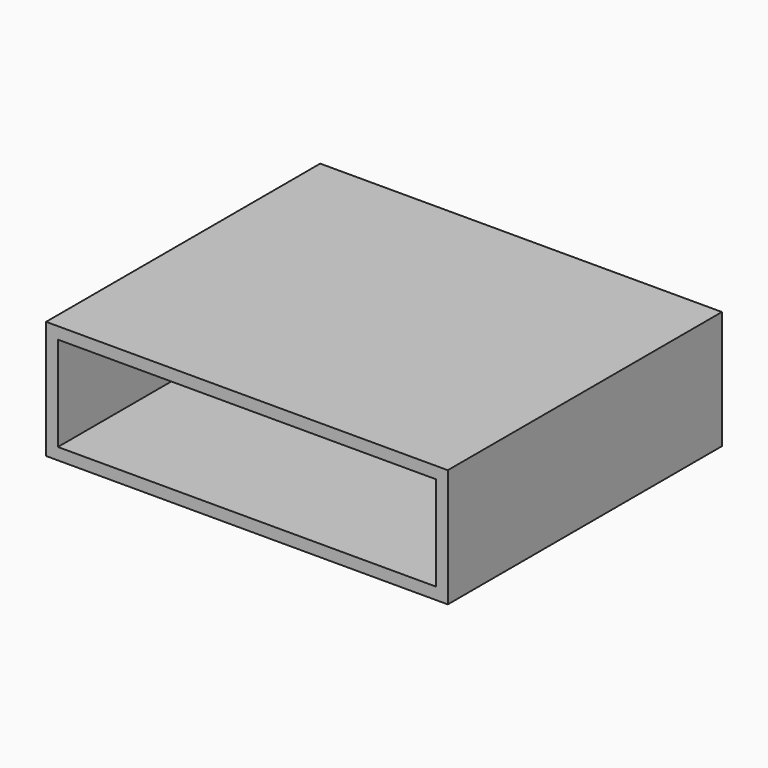
from build123d import *

# Parameters (mm, degrees)
F0_W     = 170
F0_H     = 50
F0_W_2   = 160
F0_H_2   = 40
F1_DEPTH = 145
F2_DEPTH = 140


with BuildPart() as f1:
    # F0 (on Front) → F1 (new body)
    with BuildSketch(Plane.XZ):
        Rectangle(F0_W, F0_H)
        Rectangle(F0_W_2, F0_H_2, mode=Mode.SUBTRACT)
        Rectangle(F0_W_2, F0_H_2)
    extrude(amount=-F1_DEPTH)

    # F0 (on Front) → F2 (cut)
    with BuildSketch(Plane.XZ):
        Rectangle(F0_W_2, F0_H_2)
    extrude(amount=-F2_DEPTH, mode=Mode.SUBTRACT)


solid = f1.part
